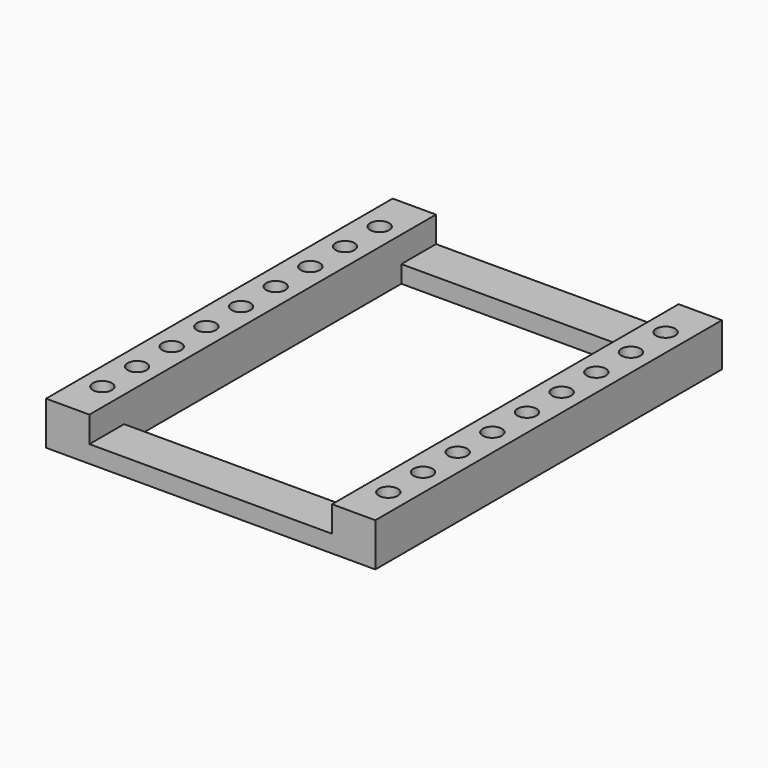
from build123d import *

# Parameters (mm, degrees)
F0_R     = 1.397
F1_DEPTH = 6.35
F2_W     = 35.56
F2_H     = 63.5
F3_DEPTH = 3.81
F4_W     = 35.56
F4_H     = 50.8
F5_DEPTH = 25.4


with BuildPart() as f1:
    # F0 (on Top) → F1 (new body)
    with BuildSketch(Plane.XY):
        with BuildLine():
            ThreePointArc((-22.352, 0), (-20.955, -1.397), (-19.558, 0))
            ThreePointArc((-19.558, 0), (-20.955, 1.397), (-22.352, 0))
        make_face()
        Polygon((-24.13, 31.75), (-24.13, 0), (-24.13, -31.75), (-17.78, -31.75), (17.78, -31.75), (24.13, -31.75), (24.13, 31.75), (17.78, 31.75), (-17.78, 31.75), align=None)
        with Locations((-20.955, -25.4)):
            Circle(F0_R, mode=Mode.SUBTRACT)
        with Locations((-20.955, -19.05)):
            Circle(F0_R, mode=Mode.SUBTRACT)
        with Locations((-20.955, -12.7)):
            Circle(F0_R, mode=Mode.SUBTRACT)
        with Locations((-20.955, -6.35)):
            Circle(F0_R, mode=Mode.SUBTRACT)
        with Locations((20.955, -25.4)):
            Circle(F0_R, mode=Mode.SUBTRACT)
        with Locations((20.955, -19.05)):
            Circle(F0_R, mode=Mode.SUBTRACT)
        with Locations((20.955, -12.7)):
            Circle(F0_R, mode=Mode.SUBTRACT)
        with Locations((20.955, -6.35)):
            Circle(F0_R, mode=Mode.SUBTRACT)
        with BuildLine():
            ThreePointArc((-22.352, 0), (-20.955, 1.397), (-19.558, 0))
            ThreePointArc((-19.558, 0), (-20.955, -1.397), (-22.352, 0))
        make_face(mode=Mode.SUBTRACT)
        with Locations((-20.955, 6.35)):
            Circle(F0_R, mode=Mode.SUBTRACT)
        with Locations((-20.955, 12.7)):
            Circle(F0_R, mode=Mode.SUBTRACT)
        with Locations((-20.955, 19.05)):
            Circle(F0_R, mode=Mode.SUBTRACT)
        with Locations((-20.955, 25.4)):
            Circle(F0_R, mode=Mode.SUBTRACT)
        with Locations((20.955, 0)):
            Circle(F0_R, mode=Mode.SUBTRACT)
        with Locations((20.955, 6.35)):
            Circle(F0_R, mode=Mode.SUBTRACT)
        with Locations((20.955, 12.7)):
            Circle(F0_R, mode=Mode.SUBTRACT)
        with Locations((20.955, 19.05)):
            Circle(F0_R, mode=Mode.SUBTRACT)
        with Locations((20.955, 25.4)):
            Circle(F0_R, mode=Mode.SUBTRACT)
    extrude(amount=F1_DEPTH)

    # F2 (on face) → F3 (cut)
    with BuildSketch(Plane.XY.offset(6.35)):
        Rectangle(F2_W, F2_H)
    extrude(amount=-F3_DEPTH, mode=Mode.SUBTRACT)

    # F4 (on face) → F5 (cut)
    with BuildSketch(Plane.XY.offset(2.54)):
        Rectangle(F4_W, F4_H)
    extrude(amount=-F5_DEPTH, mode=Mode.SUBTRACT)


solid = f1.part
